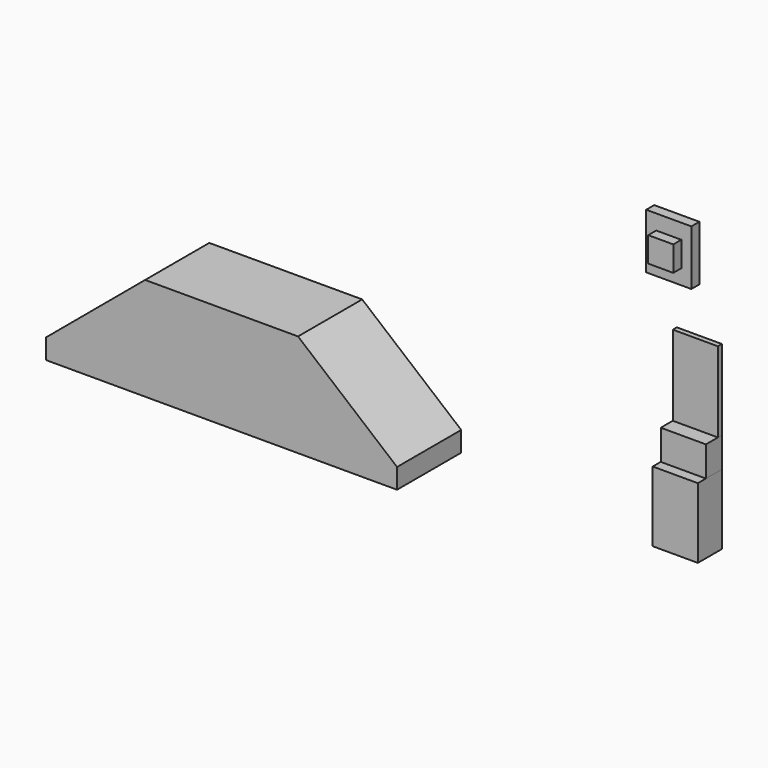
from build123d import *

# Parameters (mm, degrees)
F2_DEPTH = 203.2
F1_W     = 114.3
F1_H     = 177.8
F3_DEPTH = 76.2
F1_H_2   = 203.2
F4_DEPTH = 12.7
F1_H_3   = 76.2
F5_DEPTH = 50.8
F1_H_4   = 139.7
F1_W_2   = 63.5
F1_H_5   = 63.5
F6_DEPTH = 25.4
F7_DEPTH = 50.8


with BuildPart() as f2:
    # F1 (on Front) → F2 (new body)
    with BuildSketch(Plane.XZ):
        Polygon((-250.825, 0), (0, 0), (0, 50.8), (-250.825, 260.35), (-638.175, 260.35), (-889, 50.8), (-889, 0), (-638.175, 0), align=None)
    extrude(amount=F2_DEPTH)


with BuildPart() as f3:
    # F1 (on Front) → F3 (new body)
    with BuildSketch(Plane.XZ):
        with Locations((603.25, 88.9)):
            Rectangle(F1_W, F1_H)
    extrude(amount=F3_DEPTH)


with BuildPart() as f4:
    # F1 (on Front) → F4 (new body)
    with BuildSketch(Plane.XZ):
        with Locations((603.25, 355.6)):
            Rectangle(F1_W, F1_H_2)
    extrude(amount=F4_DEPTH)


with BuildPart() as f5:
    # F1 (on Front) → F5 (new body)
    with BuildSketch(Plane.XZ):
        with Locations((603.25, 215.9)):
            Rectangle(F1_W, F1_H_3)
    extrude(amount=F5_DEPTH)


with BuildPart() as f6:
    # F1 (on Front) → F6 (new body)
    with BuildSketch(Plane.XZ):
        with Locations((546.1, 641.35)):
            Rectangle(F1_W, F1_H_4)
        with Locations((546.1, 641.35)):
            Rectangle(F1_W_2, F1_H_5, mode=Mode.SUBTRACT)
    extrude(amount=F6_DEPTH)

    # F1 (on Front) → F7 (join)
    with BuildSketch(Plane.XZ):
        with Locations((546.1, 641.35)):
            Rectangle(F1_W_2, F1_H_5)
    extrude(amount=F7_DEPTH)


solid = Compound([f2.part, f3.part, f4.part, f5.part, f6.part])
